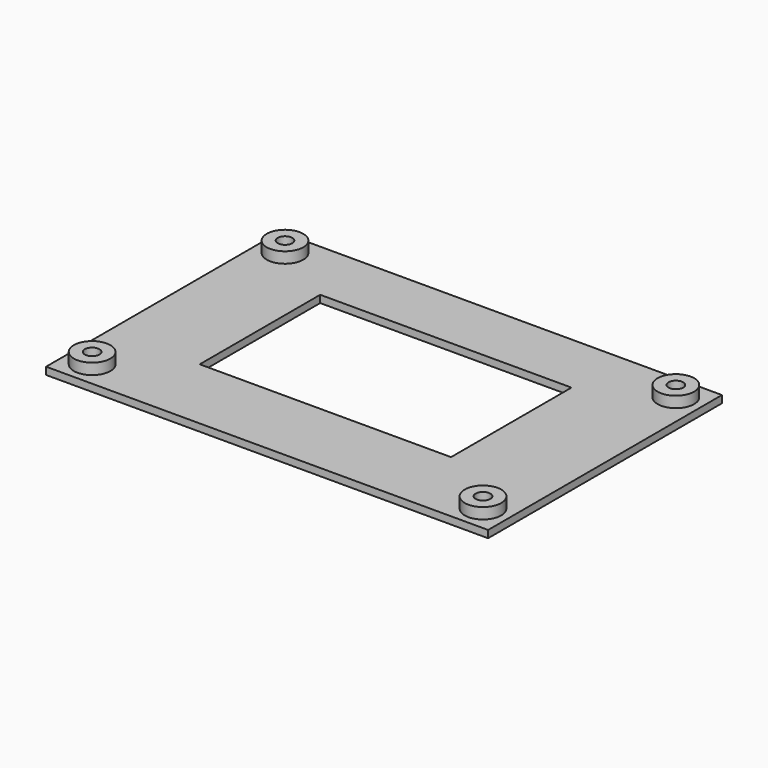
from build123d import *

# Parameters (mm, degrees)
F0_W     = 121
F0_H     = 80
F0_R     = 5
F0_W_2   = 68.787589
F0_H_2   = 41.211184
F1_DEPTH = 2
F0_R_2   = 2
F2_DEPTH = 5


with BuildPart() as f1:
    # F0 (on Top) → F1 (new body)
    with BuildSketch(Plane.XY):
        with Locations((-5.542577, 6.673754)):
            Rectangle(F0_W, F0_H)
        with Locations((-59.042577, -26.326246)):
            Circle(F0_R, mode=Mode.SUBTRACT)
        with Locations((47.957423, -26.326246)):
            Circle(F0_R, mode=Mode.SUBTRACT)
        with Locations((-6.692152, 8.661864)):
            Rectangle(F0_W_2, F0_H_2, mode=Mode.SUBTRACT)
        with Locations((-59.042577, 39.673754)):
            Circle(F0_R, mode=Mode.SUBTRACT)
        with Locations((47.957423, 39.673754)):
            Circle(F0_R, mode=Mode.SUBTRACT)
    extrude(amount=F1_DEPTH)

    # F0 (on Top) → F2 (join)
    with BuildSketch(Plane.XY):
        with Locations((-59.042577, 39.673754)):
            Circle(F0_R)
        with Locations((-59.042577, 39.673754)):
            Circle(F0_R_2, mode=Mode.SUBTRACT)
        with Locations((47.957423, 39.673754)):
            Circle(F0_R)
        with Locations((47.957423, 39.673754)):
            Circle(F0_R_2, mode=Mode.SUBTRACT)
        with Locations((47.957423, -26.326246)):
            Circle(F0_R)
        with Locations((47.957423, -26.326246)):
            Circle(F0_R_2, mode=Mode.SUBTRACT)
        with Locations((-59.042577, -26.326246)):
            Circle(F0_R)
        with Locations((-59.042577, -26.326246)):
            Circle(F0_R_2, mode=Mode.SUBTRACT)
    extrude(amount=F2_DEPTH)


solid = f1.part
